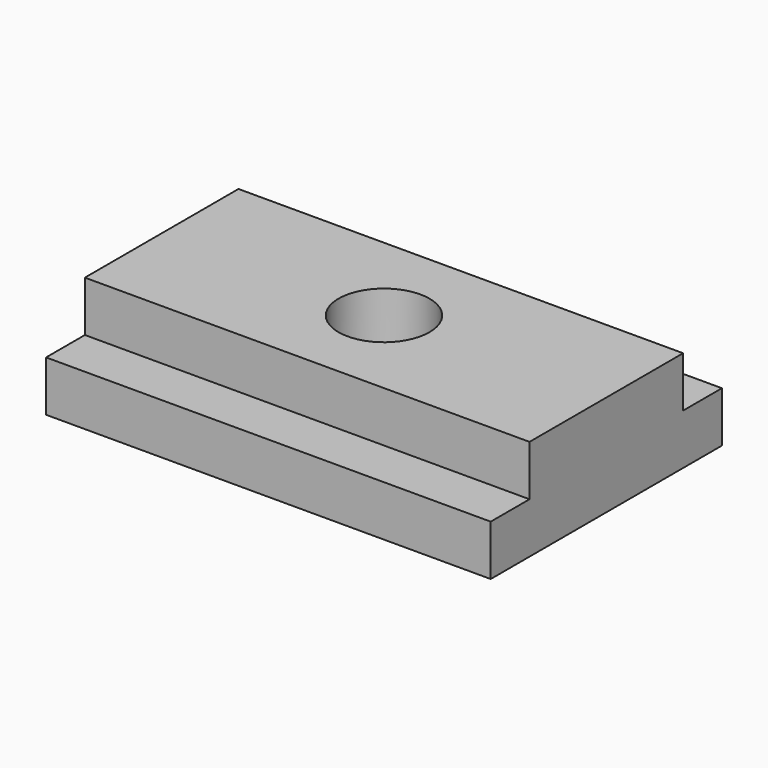
from build123d import *

# Parameters (mm, degrees)
F0_W     = 44
F0_H     = 19
F0_R     = 4.5
F1_DEPTH = 10
F0_H_2   = 4.8
F2_DEPTH = 5


with BuildPart() as f1:
    # F0 (on Top) → F1 (new body)
    with BuildSketch(Plane.XY):
        with Locations((22, 14.3)):
            Rectangle(F0_W, F0_H)
        with Locations((22, 14.3)):
            Circle(F0_R, mode=Mode.SUBTRACT)
    extrude(amount=F1_DEPTH)

    # F0 (on Top) → F2 (join)
    with BuildSketch(Plane.XY):
        with Locations((22, 2.4)):
            Rectangle(F0_W, F0_H_2)
        with Locations((22, 26.2)):
            Rectangle(F0_W, F0_H_2)
    extrude(amount=F2_DEPTH)


solid = f1.part
